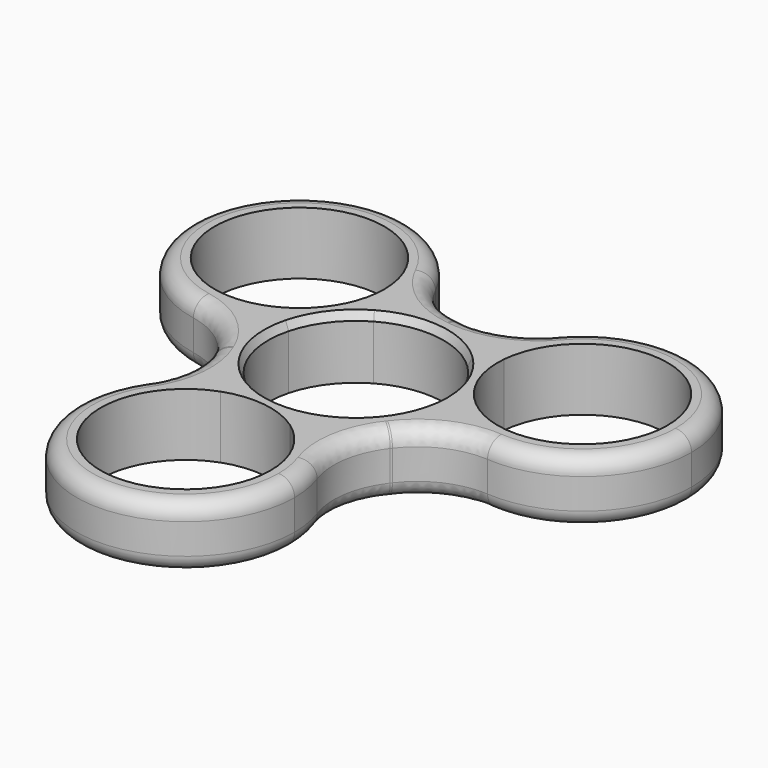
from build123d import *

# Parameters (mm, degrees)
F1_DEPTH = 7.8
F2_R     = 10
F3_R     = 2
F4_SIZE2 = 0.5
F4_SIZE  = 1


with BuildPart() as f1:
    # F0 (on Top) → F1 (new body)
    with BuildSketch(Plane.XY):
        with BuildLine():
            ThreePointArc((7.6881569255, 7.7970983762), (10.1016785322, 4.2259425969), (10.95, 0))
            ThreePointArc((10.95, 0), (10.9499224895, -0.0412004007), (10.9496899593, -0.0824002182))
            ThreePointArc((10.9496899593, -0.0824002182), (12.4544552489, -1.5752783349), (14.172913448, -2.8162074489))
            ThreePointArc((14.172913448, -2.8162074489), (14.3805615211, -1.414902943), (14.45, 0))
            ThreePointArc((14.45, 0), (14.4460012928, 0.3399215323), (14.4340073843, 0.6796549335))
            ThreePointArc((14.4340073843, 0.6796549335), (11.4572688028, 4.7424668244), (10.6917389102, 9.7205565209))
            ThreePointArc((10.6917389102, 9.7205565209), (9.4336754169, 10.9456963291), (8.0362910685, 12.0091850624))
            ThreePointArc((8.0362910685, 12.0091850624), (7.6976013695, 9.9167479818), (7.6881569255, 7.7970983762))
        make_face()
        with BuildLine():
            ThreePointArc((-5.4034842974, 9.5239097774), (1.4319223646, 10.855970631), (7.6881569255, 7.7970983762))
            ThreePointArc((7.6881569255, 7.7970983762), (7.6976013695, 9.9167479818), (8.0362910685, 12.0091850624))
            ThreePointArc((8.0362910685, 12.0091850624), (1.8896144446, 14.3259155816), (-4.6475495309, 13.6822068161))
            ThreePointArc((-4.6475495309, 13.6822068161), (-4.8629965684, 11.5735138033), (-5.4034842974, 9.5239097774))
        make_face()
        with BuildLine():
            ThreePointArc((14.172913448, -2.8162074489), (12.4544552489, -1.5752783349), (10.9496899593, -0.0824002182))
            ThreePointArc((10.9496899593, -0.0824002182), (8.6855851669, -6.6680664595), (2.9084068068, -10.5566883939))
            ThreePointArc((2.9084068068, -10.5566883939), (4.7393549904, -11.6246923251), (6.3821138085, -12.9642247487))
            ThreePointArc((6.3821138085, -12.9642247487), (11.4617996038, -8.7994119032), (14.172913448, -2.8162074489))
        make_face()
        with BuildLine():
            ThreePointArc((-10.5965637324, 2.7595900177), (-8.6855851669, 6.6680664595), (-5.4034842974, 9.5239097774))
            ThreePointArc((-5.4034842974, 9.5239097774), (-4.8629965684, 11.5735138033), (-4.6475495309, 13.6822068161))
            ThreePointArc((-4.6475495309, 13.6822068161), (-6.272896339, 13.0174218461), (-7.8056021304, 12.1603896065))
            ThreePointArc((-7.8056021304, 12.1603896065), (-9.8357311479, 7.551052429), (-13.7641183411, 4.3990392464))
            ThreePointArc((-13.7641183411, 4.3990392464), (-14.1960887916, 2.6969543975), (-14.418404877, 0.9550396864))
            ThreePointArc((-14.418404877, 0.9550396864), (-12.43695636, 1.7079443433), (-10.5965637324, 2.7595900177))
        make_face()
        with BuildLine():
            ThreePointArc((34.8513856826, 8.7965110452), (22.8692103407, 22.2999418454), (8.0362910685, 12.0091850624))
            ThreePointArc((8.0362910685, 12.0091850624), (9.4336754169, 10.9456963291), (10.6917389102, 9.7205565209))
            ThreePointArc((10.6917389102, 9.7205565209), (21.7138487688, 19.3864179331), (31.8513856826, 8.7965110452))
            ThreePointArc((31.8513856826, 8.7965110452), (25.7288732615, -0.8114078231), (14.4340073843, 0.6796549335))
            ThreePointArc((14.4340073843, 0.6796549335), (14.4460012928, 0.3399215323), (14.45, 0))
            ThreePointArc((14.45, 0), (14.3805615211, -1.414902943), (14.172913448, -2.8162074489))
            ThreePointArc((14.172913448, -2.8162074489), (27.9106941155, -3.0615499765), (34.8513856826, 8.7965110452))
        make_face()
        with BuildLine():
            ThreePointArc((6.3821138085, -12.9642247487), (4.7393549904, -11.6246923251), (2.9084068068, -10.5566883939))
            ThreePointArc((2.9084068068, -10.5566883939), (-1.4319223646, -10.855970631), (-5.5462056619, -9.4415095592))
            ThreePointArc((-5.5462056619, -9.4415095592), (-7.5914586805, -9.9982354684), (-9.5253639171, -10.8659993672))
            ThreePointArc((-9.5253639171, -10.8659993672), (-8.136969841, -11.9411985079), (-6.628405254, -12.84004454))
            ThreePointArc((-6.628405254, -12.84004454), (-1.6215376549, -12.2935192534), (3.072379431, -14.1195957673))
            ThreePointArc((3.072379431, -14.1195957673), (4.7624133747, -13.6426507266), (6.3821138085, -12.9642247487))
        make_face()
        with BuildLine():
            ThreePointArc((-5.5462056619, -9.4415095592), (-10.1175075315, -4.1879041715), (-10.5965637324, 2.7595900177))
            ThreePointArc((-10.5965637324, 2.7595900177), (-12.43695636, 1.7079443433), (-14.418404877, 0.9550396864))
            ThreePointArc((-14.418404877, 0.9550396864), (-13.3514140484, -5.5265036784), (-9.5253639171, -10.8659993672))
            ThreePointArc((-9.5253639171, -10.8659993672), (-7.5914586805, -9.9982354684), (-5.5462056619, -9.4415095592))
        make_face()
        with BuildLine():
            ThreePointArc((-7.8056021304, 12.1603896065), (-6.272896339, 13.0174218461), (-4.6475495309, 13.6822068161))
            ThreePointArc((-4.6475495309, 13.6822068161), (-4.6446585702, 13.8440841078), (-4.6436948711, 14.0059843442))
            ThreePointArc((-4.6436948711, 14.0059843442), (-29.1290966533, 22.158776997), (-14.418404877, 0.9550396864))
            ThreePointArc((-14.418404877, 0.9550396864), (-14.1960887916, 2.6969543975), (-13.7641183411, 4.3990392464))
            ThreePointArc((-13.7641183411, 4.3990392464), (-27.1835917167, 19.701442569), (-7.6436948711, 14.0059843442))
            ThreePointArc((-7.6436948711, 14.0059843442), (-7.6842492642, 13.0796428984), (-7.8056021304, 12.1603896065))
        make_face()
        with BuildLine():
            ThreePointArc((10.5923091885, -22.8024953894), (9.4955356288, -17.451857242), (6.3821138085, -12.9642247487))
            ThreePointArc((6.3821138085, -12.9642247487), (4.7624133747, -13.6426507266), (3.072379431, -14.1195957673))
            ThreePointArc((3.072379431, -14.1195957673), (6.3946691202, -17.9080467263), (7.5923091885, -22.8024953894))
            ThreePointArc((7.5923091885, -22.8024953894), (-9.0896488395, -31.484072812), (-6.628405254, -12.84004454))
            ThreePointArc((-6.628405254, -12.84004454), (-8.136969841, -11.9411985079), (-9.5253639171, -10.8659993672))
            ThreePointArc((-9.5253639171, -10.8659993672), (-9.9474186795, -34.4986561748), (10.5923091885, -22.8024953894))
        make_face()
    extrude(amount=F1_DEPTH)

    # F2
    f2_edges = [f1.edges().sort_by_distance(p)[0] for p in [
        (-14.418405, 0.95504, 3.9),
        (-4.64755, 13.682207, 3.9),
        (8.036291, 12.009185, 3.9),
        (14.172913, -2.816207, 3.9),
        (6.382114, -12.964225, 3.9),
        (-9.525364, -10.865999, 3.9),
    ]]
    fillet(f2_edges, radius=F2_R)

    # F3
    f3_edges = [f1.edges().sort_by_distance(p)[0] for p in [
        (15.385641, -5.628262, 0),
        (-12.567039, -10.510225, 7.8),
        (-29.031271, 22.287784, 7.8),
        (33.817422, 13.997926, 7.8),
        (-4.786151, -36.28571, 0),
        (-29.031271, 22.287784, 0),
    ]]
    fillet(f3_edges, radius=F3_R)

    # F4
    f4_edges = [f1.edges().sort_by_distance(p)[0] for p in [
        (5.546206, 9.44151, 7.8),
    ]]
    f4_side = f1.faces().sort_by_distance((5.546206, 9.44151, 3.9))[0]
    chamfer(f4_edges, length=F4_SIZE, length2=F4_SIZE2, reference=f4_side)


solid = f1.part
